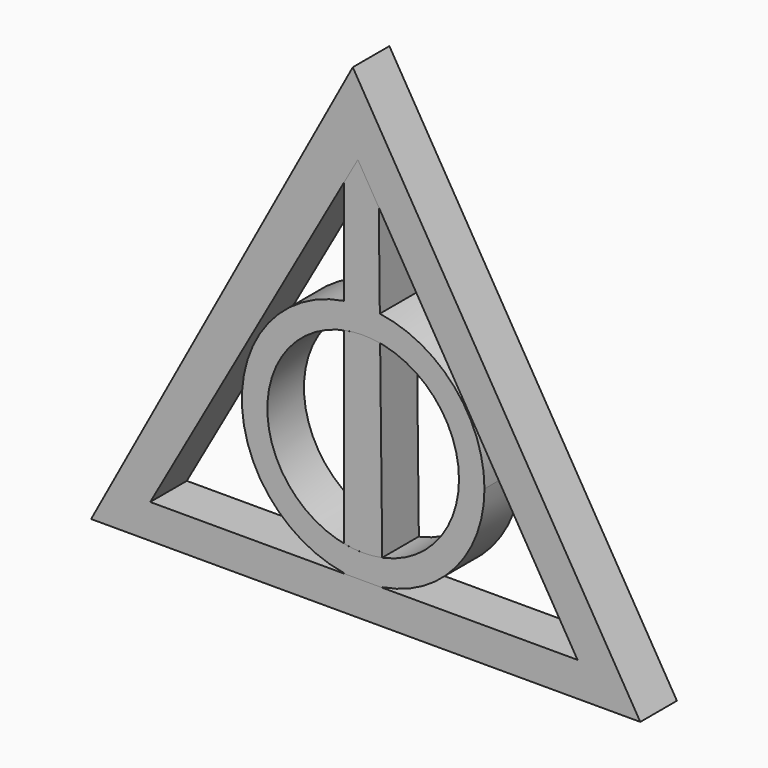
from build123d import *

# Parameters (mm, degrees)
F1_DEPTH = 6.35
F3_DEPTH = 6.35
F5_DEPTH = 6.35
F6_R     = 13.2952502856
F7_DEPTH = 25.4
F9_DEPTH = 6.35


with BuildPart() as f1:
    # F0 (on Front) → F1 (new body)
    with BuildSketch(Plane.XZ):
        Polygon((36.3074574453, 66.9940932759), (0, 0), (76.2, 0), align=None)
        Polygon((67.4904510379, 4.7487951815), (8.2024643198, 4.7487951815), (37.0116555081, 55.9337821464), align=None, mode=Mode.SUBTRACT)
    extrude(amount=F1_DEPTH)


with BuildPart() as f3:
    # F2 (on face) → F3 (new body)
    with BuildSketch(Plane.XZ.offset(6.35)):
        Polygon((39.0733871817, 52.4713845351), (35.0628638669, 52.4713845351), (35.0628638669, 4.7487951815), (40.4367111623, 4.7487951815), (39.9158214659, 51.0566308643), align=None)
        Polygon((37.0116555081, 55.9337821464), (35.0628638669, 52.4713845351), (39.0733871817, 52.4713845351), align=None)
    extrude(amount=-F3_DEPTH)

    # F4 (on face) → F5 (join)
    with BuildSketch(Plane.XZ.offset(6.35)):
        with BuildLine():
            Line((35.0628638669, 4.8278480664), (35.0628638669, 38.0552090809))
            ThreePointArc((35.0628638669, 38.0552090809), (20.920232004, 21.4415285736), (35.0628638669, 4.8278480664))
        make_face()
        with BuildLine():
            ThreePointArc((40.4358235572, 4.8277045387), (50.5645979183, 10.532148527), (54.5793430252, 21.4415285736))
            ThreePointArc((54.5793430252, 21.4415285736), (50.4410818285, 32.4943556926), (40.0614328825, 38.1115685969))
            Line((40.0614328825, 38.1115685969), (40.4358235572, 4.8277045387))
        make_face()
    extrude(amount=-F5_DEPTH)

    # F6 (on face) → F7 (cut)
    with BuildSketch(Plane.XZ.offset(6.35)):
        with Locations((37.7497875146, 21.4415285736)):
            Circle(F6_R)
    extrude(amount=-F7_DEPTH, mode=Mode.SUBTRACT)


with BuildPart() as f9:
    # F8 (on face) → F9 (new body)
    with BuildSketch(Plane.XZ.offset(6.35)):
        with BuildLine():
            ThreePointArc((40.1017525712, 34.5270908668), (37.5792171065, 34.7356846541), (35.0628638669, 34.4624395044))
            Line((35.0628638669, 34.4624395044), (35.0628638669, 8.4206176429))
            ThreePointArc((35.0628638669, 8.4206176429), (37.7287566052, 8.1462949218), (40.3955038686, 8.4121822688))
            Line((40.3955038686, 8.4121822688), (40.1017525712, 34.5270908668))
        make_face()
    extrude(amount=-F9_DEPTH)


solid = Compound([f1.part, f3.part, f9.part])
